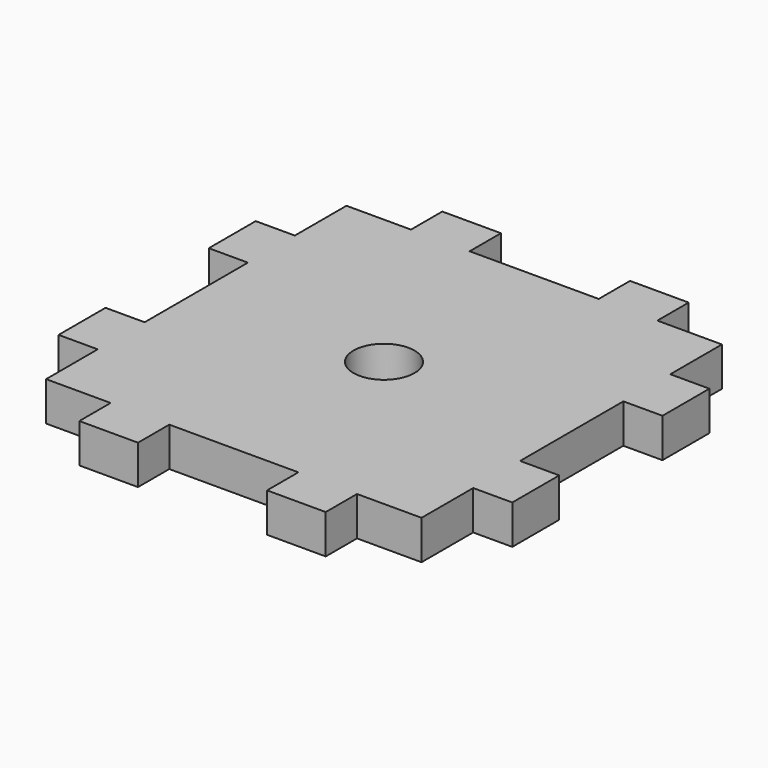
from build123d import *

# Parameters (mm, degrees)
F0_W     = 2.38125
F0_H     = 3.175
F0_W_2   = 3.175
F0_H_2   = 2.38125
F0_W_3   = 7.62
F0_H_3   = 7.62
F1_DEPTH = 3.175
F2_R     = 2.4765
F3_DEPTH = 25.4


with BuildPart() as f1:
    # F0 (on Top) → F1 (new body)
    with BuildSketch(Plane.XY):
        Polygon((-7.62, 15.24), (-5.23875, 15.24), (-5.23875, 18.415), (-10.00125, 18.415), (-10.00125, 15.24), align=None)
        with Locations((-8.810625, 13.6525)):
            Rectangle(F0_W, F0_H)
        with Locations((-6.429375, 13.6525)):
            Rectangle(F0_W, F0_H)
        Polygon((0, 7.62), (0, 15.24), (-5.23875, 15.24), (-5.23875, 12.065), (-7.62, 12.065), (-7.62, 7.62), align=None)
        Polygon((-12.065, 7.62), (-7.62, 7.62), (-7.62, 12.065), (-10.00125, 12.065), (-10.00125, 15.24), (-15.24, 15.24), (-15.24, 10.00125), (-12.065, 10.00125), align=None)
        with Locations((-13.6525, 8.810625)):
            Rectangle(F0_W_2, F0_H_2)
        with Locations((-13.6525, 6.429375)):
            Rectangle(F0_W_2, F0_H_2)
        Polygon((-15.24, 5.23875), (-15.24, 7.62), (-15.24, 10.00125), (-18.415, 10.00125), (-18.415, 5.23875), align=None)
        Polygon((-7.62, 0), (-7.62, 7.62), (-12.065, 7.62), (-12.065, 5.23875), (-15.24, 5.23875), (-15.24, 0), align=None)
        with Locations((-3.81, 3.81)):
            Rectangle(F0_W_3, F0_H_3)
        with Locations((3.81, 3.81)):
            Rectangle(F0_W_3, F0_H_3)
        Polygon((5.23875, 12.065), (5.23875, 15.24), (0, 15.24), (0, 7.62), (7.62, 7.62), (7.62, 12.065), align=None)
        with Locations((6.429375, 13.6525)):
            Rectangle(F0_W, F0_H)
        with Locations((8.810625, 13.6525)):
            Rectangle(F0_W, F0_H)
        Polygon((7.62, 15.24), (10.00125, 15.24), (10.00125, 18.415), (5.23875, 18.415), (5.23875, 15.24), align=None)
        Polygon((15.24, 0), (15.24, 5.23875), (12.065, 5.23875), (12.065, 7.62), (7.62, 7.62), (7.62, 0), align=None)
        Polygon((15.24, 10.00125), (15.24, 15.24), (10.00125, 15.24), (10.00125, 12.065), (7.62, 12.065), (7.62, 7.62), (12.065, 7.62), (12.065, 10.00125), align=None)
        with Locations((13.6525, 8.810625)):
            Rectangle(F0_W_2, F0_H_2)
        with Locations((13.6525, 6.429375)):
            Rectangle(F0_W_2, F0_H_2)
        Polygon((18.415, 10.00125), (15.24, 10.00125), (15.24, 7.62), (15.24, 5.23875), (18.415, 5.23875), align=None)
        Polygon((15.24, -5.23875), (15.24, 0), (7.62, 0), (7.62, -7.62), (12.065, -7.62), (12.065, -5.23875), align=None)
        with Locations((13.6525, -6.429375)):
            Rectangle(F0_W_2, F0_H_2)
        Polygon((12.065, -7.62), (7.62, -7.62), (7.62, -12.065), (10.00125, -12.065), (10.00125, -15.24), (15.24, -15.24), (15.24, -10.00125), (12.065, -10.00125), align=None)
        Polygon((18.415, -5.23875), (15.24, -5.23875), (15.24, -7.62), (15.24, -10.00125), (18.415, -10.00125), align=None)
        with Locations((13.6525, -8.810625)):
            Rectangle(F0_W_2, F0_H_2)
        with Locations((6.429375, -13.6525)):
            Rectangle(F0_W, F0_H)
        with Locations((8.810625, -13.6525)):
            Rectangle(F0_W, F0_H)
        Polygon((10.00125, -15.24), (7.62, -15.24), (5.23875, -15.24), (5.23875, -18.415), (10.00125, -18.415), align=None)
        Polygon((7.62, -12.065), (7.62, -7.62), (0, -7.62), (0, -15.24), (5.23875, -15.24), (5.23875, -12.065), align=None)
        with Locations((3.81, -3.81)):
            Rectangle(F0_W_3, F0_H_3)
        with Locations((-3.81, -3.81)):
            Rectangle(F0_W_3, F0_H_3)
        Polygon((-7.62, -7.62), (-7.62, 0), (-15.24, 0), (-15.24, -5.23875), (-12.065, -5.23875), (-12.065, -7.62), align=None)
        with Locations((-13.6525, -6.429375)):
            Rectangle(F0_W_2, F0_H_2)
        with Locations((-13.6525, -8.810625)):
            Rectangle(F0_W_2, F0_H_2)
        Polygon((-15.24, -7.62), (-15.24, -5.23875), (-18.415, -5.23875), (-18.415, -10.00125), (-15.24, -10.00125), align=None)
        Polygon((-7.62, -12.065), (-7.62, -7.62), (-12.065, -7.62), (-12.065, -10.00125), (-15.24, -10.00125), (-15.24, -15.24), (-10.00125, -15.24), (-10.00125, -12.065), align=None)
        Polygon((0, -15.24), (0, -7.62), (-7.62, -7.62), (-7.62, -12.065), (-5.23875, -12.065), (-5.23875, -15.24), align=None)
        with Locations((-6.429375, -13.6525)):
            Rectangle(F0_W, F0_H)
        with Locations((-8.810625, -13.6525)):
            Rectangle(F0_W, F0_H)
        Polygon((-5.23875, -18.415), (-5.23875, -15.24), (-7.62, -15.24), (-10.00125, -15.24), (-10.00125, -18.415), align=None)
    extrude(amount=F1_DEPTH)

    # F2 (on face) → F3 (cut)
    with BuildSketch(Plane.XY.offset(3.175)):
        Circle(F2_R)
    extrude(amount=-F3_DEPTH, mode=Mode.SUBTRACT)


solid = f1.part
